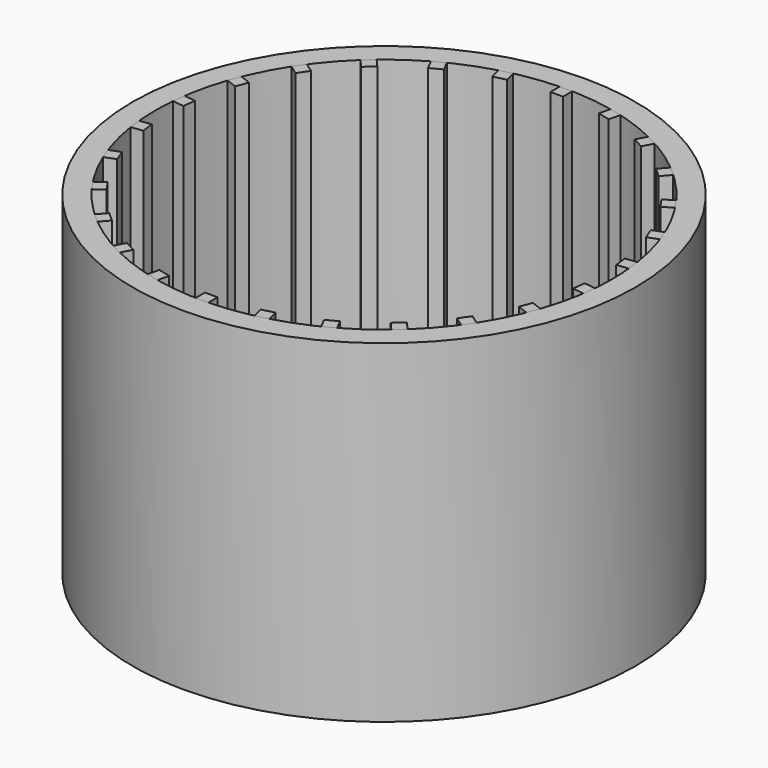
from build123d import *

# Parameters (mm, degrees)
F1_DEPTH = 60
F0_W     = 2.2788543123
F0_H     = 2.0795210019
F0_R     = 45.2176031517
F2_SCALE = 0.74


with BuildPart() as f1:
    # F0 (on Top) → F1 (new body)
    with BuildSketch(Plane.XY):
        Polygon((-8.8355427484, 40.1310926861), (-11.048177696, 39.5857271526), (-10.5505157461, 37.5666332516), (-8.3378807984, 38.1119987852), align=None)
    extrude(amount=F1_DEPTH)


with BuildPart() as f1b:
    # F0 (on Top) → F1, piece 2 (new body)
    with BuildSketch(Plane.XY):
        with Locations((-0.1142259855, 40.0396793492)):
            Rectangle(F0_W, F0_H)
    extrude(amount=F1_DEPTH)


with BuildPart() as f1c:
    # F0 (on Top) → F1, piece 3 (new body)
    with BuildSketch(Plane.XY):
        Polygon((10.8263641242, 39.6403992878), (8.6137291766, 40.1857648213), (8.1160672266, 38.1666709204), (10.3287021742, 37.6213053868), align=None)
    extrude(amount=F1_DEPTH)


with BuildPart() as f1d:
    # F0 (on Top) → F1, piece 4 (new body)
    with BuildSketch(Plane.XY):
        Polygon((19.9983381471, 35.8976028057), (17.9805128646, 36.9566392104), (17.0141112683, 35.1153148088), (19.0319365507, 34.0562784042), align=None)
    extrude(amount=F1_DEPTH)


with BuildPart() as f1e:
    # F0 (on Top) → F1, piece 5 (new body)
    with BuildSketch(Plane.XY):
        Circle(F0_R)
        with BuildLine():
            ThreePointArc((40.6288132943, 6.196091905), (40.9809586182, 3.1069366475), (41.0985647511, 0))
            ThreePointArc((41.0985647511, 0), (41.0566611186, -1.8554251243), (40.9310356701, -3.7070667076))
            ThreePointArc((40.9310356701, -3.7070667076), (40.1857648213, -8.6137291766), (38.854495031, -13.3947840777))
            ThreePointArc((38.854495031, -13.3947840777), (36.9566392104, -17.9805128646), (34.519872371, -22.3040452854))
            ThreePointArc((34.519872371, -22.3040452854), (31.5797280605, -26.3023345015), (28.1790802035, -29.9170764529))
            ThreePointArc((28.1790802035, -29.9170764529), (24.3675179033, -33.0955600622), (20.2006223213, -35.7914358812))
            ThreePointArc((20.2006223213, -35.7914358812), (15.7391561779, -37.9653919696), (11.048177696, -39.5857271526))
            ThreePointArc((11.048177696, -39.5857271526), (6.196091905, -40.6288132943), (1.2536531416, -41.0794398502))
            ThreePointArc((1.2536531416, -41.0794398502), (-3.7070667076, -40.9310356701), (-8.6137291766, -40.1857648213))
            ThreePointArc((-8.6137291766, -40.1857648213), (-13.3947840777, -38.854495031), (-17.9805128646, -36.9566392104))
            ThreePointArc((-17.9805128646, -36.9566392104), (-22.3040452854, -34.519872371), (-26.3023345015, -31.5797280605))
            ThreePointArc((-26.3023345015, -31.5797280605), (-29.9170764529, -28.1790802035), (-33.0955600622, -24.3675179033))
            ThreePointArc((-33.0955600622, -24.3675179033), (-35.7914358812, -20.2006223213), (-37.9653919696, -15.7391561779))
            ThreePointArc((-37.9653919696, -15.7391561779), (-39.5857271526, -11.048177696), (-40.6288132943, -6.196091905))
            ThreePointArc((-40.6288132943, -6.196091905), (-41.0794398502, -1.2536531416), (-40.9310356701, 3.7070667076))
            ThreePointArc((-40.9310356701, 3.7070667076), (-40.1857648213, 8.6137291766), (-38.854495031, 13.3947840777))
            ThreePointArc((-38.854495031, 13.3947840777), (-36.9566392104, 17.9805128646), (-34.519872371, 22.3040452854))
            ThreePointArc((-34.519872371, 22.3040452854), (-31.5797280605, 26.3023345015), (-28.1790802035, 29.9170764529))
            ThreePointArc((-28.1790802035, 29.9170764529), (-24.3675179033, 33.0955600622), (-20.2006223213, 35.7914358812))
            ThreePointArc((-20.2006223213, 35.7914358812), (-15.7391561779, 37.9653919696), (-11.048177696, 39.5857271526))
            ThreePointArc((-11.048177696, 39.5857271526), (-6.196091905, 40.6288132943), (-1.2536531416, 41.0794398502))
            ThreePointArc((-1.2536531416, 41.0794398502), (3.7070667076, 40.9310356701), (8.6137291766, 40.1857648213))
            ThreePointArc((8.6137291766, 40.1857648213), (13.3947840777, 38.854495031), (17.9805128646, 36.9566392104))
            ThreePointArc((17.9805128646, 36.9566392104), (22.3040452854, 34.519872371), (26.3023345015, 31.5797280605))
            ThreePointArc((26.3023345015, 31.5797280605), (29.9170764529, 28.1790802035), (33.0955600622, 24.3675179033))
            ThreePointArc((33.0955600622, 24.3675179033), (35.7914358812, 20.2006223213), (37.9653919696, 15.7391561779))
            ThreePointArc((37.9653919696, 15.7391561779), (39.5857271526, 11.048177696), (40.6288132943, 6.196091905))
        make_face(mode=Mode.SUBTRACT)
    extrude(amount=F1_DEPTH)


with BuildPart() as f1f:
    # F0 (on Top) → F1, piece 6 (new body)
    with BuildSketch(Plane.XY):
        Polygon((28.0080814478, 30.0685681311), (26.3023345015, 31.5797280605), (24.9233570069, 30.0231842395), (26.6291039532, 28.5120243102), align=None)
    extrude(amount=F1_DEPTH)


with BuildPart() as f1g:
    # F0 (on Top) → F1, piece 7 (new body)
    with BuildSketch(Plane.XY):
        Polygon((34.39009686, 22.4920575716), (33.0955600622, 24.3675179033), (31.3841478289, 23.1862153321), (32.6786846267, 21.3107550003), align=None)
    extrude(amount=F1_DEPTH)


with BuildPart() as f1h:
    # F0 (on Top) → F1, piece 8 (new body)
    with BuildSketch(Plane.XY):
        Polygon((38.7734848456, 13.6083903812), (37.9653919696, 15.7391561779), (36.0210060559, 15.001747868), (36.8290989319, 12.8709820712), align=None)
    extrude(amount=F1_DEPTH)


with BuildPart() as f1i:
    # F0 (on Top) → F1, piece 9 (new body)
    with BuildSketch(Plane.XY):
        Polygon((40.9034988279, 3.9338530064), (40.6288132943, 6.196091905), (38.5644543419, 5.9454333469), (38.8391398755, 3.6831944483), align=None)
    extrude(amount=F1_DEPTH)


with BuildPart() as f1j:
    # F0 (on Top) → F1, piece 10 (new body)
    with BuildSketch(Plane.XY):
        Polygon((40.6563501365, -5.9693056062), (40.9310356701, -3.7070667076), (38.8666767177, -3.4564081495), (38.5919911841, -5.7186470481), align=None)
    extrude(amount=F1_DEPTH)


with BuildPart() as f1k:
    # F0 (on Top) → F1, piece 11 (new body)
    with BuildSketch(Plane.XY):
        Polygon((38.046402155, -15.5255498745), (38.854495031, -13.3947840777), (36.9101091172, -12.6573757678), (36.1020162412, -14.7881415645), align=None)
    extrude(amount=F1_DEPTH)


with BuildPart() as f1l:
    # F0 (on Top) → F1, piece 12 (new body)
    with BuildSketch(Plane.XY):
        Polygon((33.2253355732, -24.1795056171), (34.519872371, -22.3040452854), (32.8084601377, -21.1227427141), (31.5139233399, -22.9982030459), align=None)
    extrude(amount=F1_DEPTH)


with BuildPart() as f1m:
    # F0 (on Top) → F1, piece 13 (new body)
    with BuildSketch(Plane.XY):
        Polygon((26.4733332572, -31.4282363822), (28.1790802035, -29.9170764529), (26.8001027088, -28.360532632), (25.0943557625, -29.8716925613), align=None)
    extrude(amount=F1_DEPTH)


with BuildPart() as f1n:
    # F0 (on Top) → F1, piece 14 (new body)
    with BuildSketch(Plane.XY):
        Polygon((18.1827970388, -36.8504722858), (20.2006223213, -35.7914358812), (19.2342207249, -33.9501114796), (17.2163954425, -35.0091478842), align=None)
    extrude(amount=F1_DEPTH)


with BuildPart() as f1o:
    # F0 (on Top) → F1, piece 15 (new body)
    with BuildSketch(Plane.XY):
        Polygon((8.8355427484, -40.1310926861), (11.048177696, -39.5857271526), (10.5505157461, -37.5666332516), (8.3378807984, -38.1119987852), align=None)
    extrude(amount=F1_DEPTH)


with BuildPart() as f1p:
    # F0 (on Top) → F1, piece 16 (new body)
    with BuildSketch(Plane.XY):
        with Locations((0.1142259855, -40.0396793492)):
            Rectangle(F0_W, F0_H)
    extrude(amount=F1_DEPTH)


with BuildPart() as f1q:
    # F0 (on Top) → F1, piece 17 (new body)
    with BuildSketch(Plane.XY):
        Polygon((-10.8263641242, -39.6403992878), (-8.6137291766, -40.1857648213), (-8.1160672266, -38.1666709204), (-10.3287021742, -37.6213053868), align=None)
    extrude(amount=F1_DEPTH)


with BuildPart() as f1r:
    # F0 (on Top) → F1, piece 18 (new body)
    with BuildSketch(Plane.XY):
        Polygon((-19.9983381471, -35.8976028057), (-17.9805128646, -36.9566392104), (-17.0141112683, -35.1153148088), (-19.0319365507, -34.0562784042), align=None)
    extrude(amount=F1_DEPTH)


with BuildPart() as f1s:
    # F0 (on Top) → F1, piece 19 (new body)
    with BuildSketch(Plane.XY):
        Polygon((-18.1827970388, 36.8504722858), (-20.2006223213, 35.7914358812), (-19.2342207249, 33.9501114796), (-17.2163954425, 35.0091478842), align=None)
    extrude(amount=F1_DEPTH)


with BuildPart() as f1t:
    # F0 (on Top) → F1, piece 20 (new body)
    with BuildSketch(Plane.XY):
        Polygon((-26.4733332572, 31.4282363822), (-28.1790802035, 29.9170764529), (-26.8001027088, 28.360532632), (-25.0943557625, 29.8716925613), align=None)
    extrude(amount=F1_DEPTH)


with BuildPart() as f1u:
    # F0 (on Top) → F1, piece 21 (new body)
    with BuildSketch(Plane.XY):
        Polygon((-33.2253355732, 24.1795056171), (-34.519872371, 22.3040452854), (-32.8084601377, 21.1227427141), (-31.5139233399, 22.9982030459), align=None)
    extrude(amount=F1_DEPTH)


with BuildPart() as f1v:
    # F0 (on Top) → F1, piece 22 (new body)
    with BuildSketch(Plane.XY):
        Polygon((-38.046402155, 15.5255498745), (-38.854495031, 13.3947840777), (-36.9101091172, 12.6573757678), (-36.1020162412, 14.7881415645), align=None)
    extrude(amount=F1_DEPTH)


with BuildPart() as f1w:
    # F0 (on Top) → F1, piece 23 (new body)
    with BuildSketch(Plane.XY):
        Polygon((-40.6563501365, 5.9693056062), (-40.9310356701, 3.7070667076), (-38.8666767177, 3.4564081495), (-38.5919911841, 5.7186470481), align=None)
    extrude(amount=F1_DEPTH)


with BuildPart() as f1x:
    # F0 (on Top) → F1, piece 24 (new body)
    with BuildSketch(Plane.XY):
        Polygon((-40.9034988279, -3.9338530064), (-40.6288132943, -6.196091905), (-38.5644543419, -5.9454333469), (-38.8391398755, -3.6831944483), align=None)
    extrude(amount=F1_DEPTH)


with BuildPart() as f1y:
    # F0 (on Top) → F1, piece 25 (new body)
    with BuildSketch(Plane.XY):
        Polygon((-38.7734848456, -13.6083903812), (-37.9653919696, -15.7391561779), (-36.0210060559, -15.001747868), (-36.8290989319, -12.8709820712), align=None)
    extrude(amount=F1_DEPTH)


with BuildPart() as f1z:
    # F0 (on Top) → F1, piece 26 (new body)
    with BuildSketch(Plane.XY):
        Polygon((-34.39009686, -22.4920575716), (-33.0955600622, -24.3675179033), (-31.3841478289, -23.1862153321), (-32.6786846267, -21.3107550003), align=None)
    extrude(amount=F1_DEPTH)


with BuildPart() as f1ba:
    # F0 (on Top) → F1, piece 27 (new body)
    with BuildSketch(Plane.XY):
        Polygon((-28.0080814478, -30.0685681311), (-26.3023345015, -31.5797280605), (-24.9233570069, -30.0231842395), (-26.6291039532, -28.5120243102), align=None)
    extrude(amount=F1_DEPTH)


with BuildPart() as f1_1:
    # F2: moved
    add(f1.part.scale(F2_SCALE))


with BuildPart() as f1q_1:
    # F2: moved
    add(f1q.part.scale(F2_SCALE))


with BuildPart() as f1o_1:
    # F2: moved
    add(f1o.part.scale(F2_SCALE))


with BuildPart() as f1m_1:
    # F2: moved
    add(f1m.part.scale(F2_SCALE))


with BuildPart() as f1c_1:
    # F2: moved
    add(f1c.part.scale(F2_SCALE))


with BuildPart() as f1s_1:
    # F2: moved
    add(f1s.part.scale(F2_SCALE))


with BuildPart() as f1b_1:
    # F2: moved
    add(f1b.part.scale(F2_SCALE))


with BuildPart() as f1e_1:
    # F2: moved
    add(f1e.part.scale(F2_SCALE))


with BuildPart() as f1f_1:
    # F2: moved
    add(f1f.part.scale(F2_SCALE))


with BuildPart() as f1v_1:
    # F2: moved
    add(f1v.part.scale(F2_SCALE))


with BuildPart() as f1j_1:
    # F2: moved
    add(f1j.part.scale(F2_SCALE))


with BuildPart() as f1g_1:
    # F2: moved
    add(f1g.part.scale(F2_SCALE))


with BuildPart() as f1k_1:
    # F2: moved
    add(f1k.part.scale(F2_SCALE))


with BuildPart() as f1p_1:
    # F2: moved
    add(f1p.part.scale(F2_SCALE))


with BuildPart() as f1r_1:
    # F2: moved
    add(f1r.part.scale(F2_SCALE))


with BuildPart() as f1n_1:
    # F2: moved
    add(f1n.part.scale(F2_SCALE))


with BuildPart() as f1y_1:
    # F2: moved
    add(f1y.part.scale(F2_SCALE))


with BuildPart() as f1l_1:
    # F2: moved
    add(f1l.part.scale(F2_SCALE))


with BuildPart() as f1d_1:
    # F2: moved
    add(f1d.part.scale(F2_SCALE))


with BuildPart() as f1t_1:
    # F2: moved
    add(f1t.part.scale(F2_SCALE))


with BuildPart() as f1w_1:
    # F2: moved
    add(f1w.part.scale(F2_SCALE))


with BuildPart() as f1x_1:
    # F2: moved
    add(f1x.part.scale(F2_SCALE))


with BuildPart() as f1ba_1:
    # F2: moved
    add(f1ba.part.scale(F2_SCALE))


with BuildPart() as f1h_1:
    # F2: moved
    add(f1h.part.scale(F2_SCALE))


with BuildPart() as f1u_1:
    # F2: moved
    add(f1u.part.scale(F2_SCALE))


with BuildPart() as f1z_1:
    # F2: moved
    add(f1z.part.scale(F2_SCALE))


with BuildPart() as f1i_1:
    # F2: moved
    add(f1i.part.scale(F2_SCALE))


solid = Compound([f1_1.part, f1q_1.part, f1o_1.part, f1m_1.part, f1c_1.part, f1s_1.part, f1b_1.part, f1e_1.part, f1f_1.part, f1v_1.part, f1j_1.part, f1g_1.part, f1k_1.part, f1p_1.part, f1r_1.part, f1n_1.part, f1y_1.part, f1l_1.part, f1d_1.part, f1t_1.part, f1w_1.part, f1x_1.part, f1ba_1.part, f1h_1.part, f1u_1.part, f1z_1.part, f1i_1.part])
